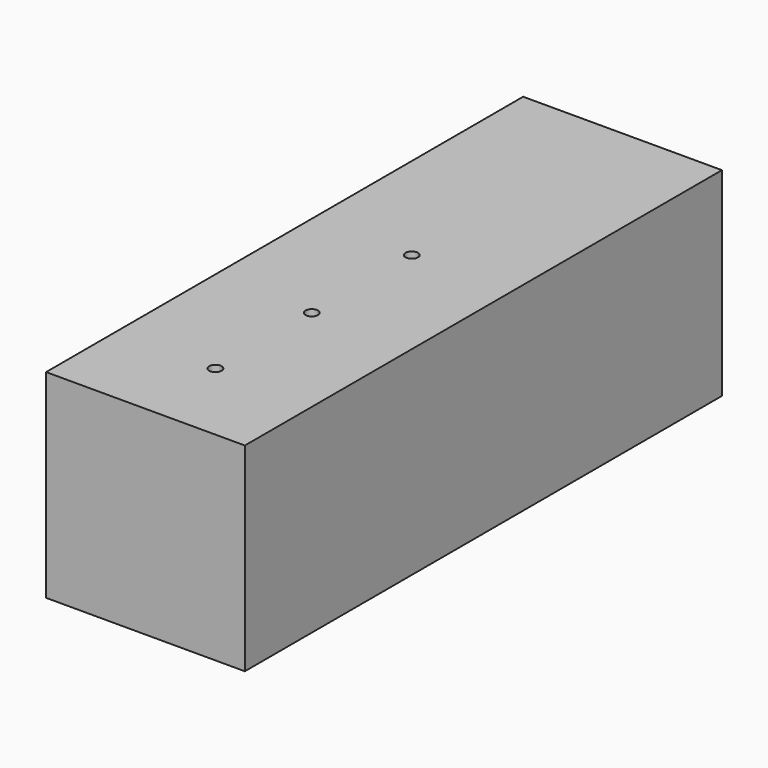
from build123d import *

# Parameters (mm, degrees)
F0_W     = 25.4
F0_H     = 25.4
F1_DEPTH = 76.2
F2_R     = 0.79375
F3_DEPTH = 9.525


with BuildPart() as f1:
    # F0 (on Front) → F1 (new body)
    with BuildSketch(Plane.XZ):
        Rectangle(F0_W, F0_H)
    extrude(amount=F1_DEPTH)

    # F2 (on face) → F3 (cut)
    with BuildSketch(Plane.XY.offset(12.7)):
        with Locations((0, -33.664466)):
            Circle(F2_R)
        with Locations((0, -49.633727)):
            Circle(F2_R)
        with Locations((0, -65.036638)):
            Circle(F2_R)
    extrude(amount=-F3_DEPTH, mode=Mode.SUBTRACT)


solid = f1.part
